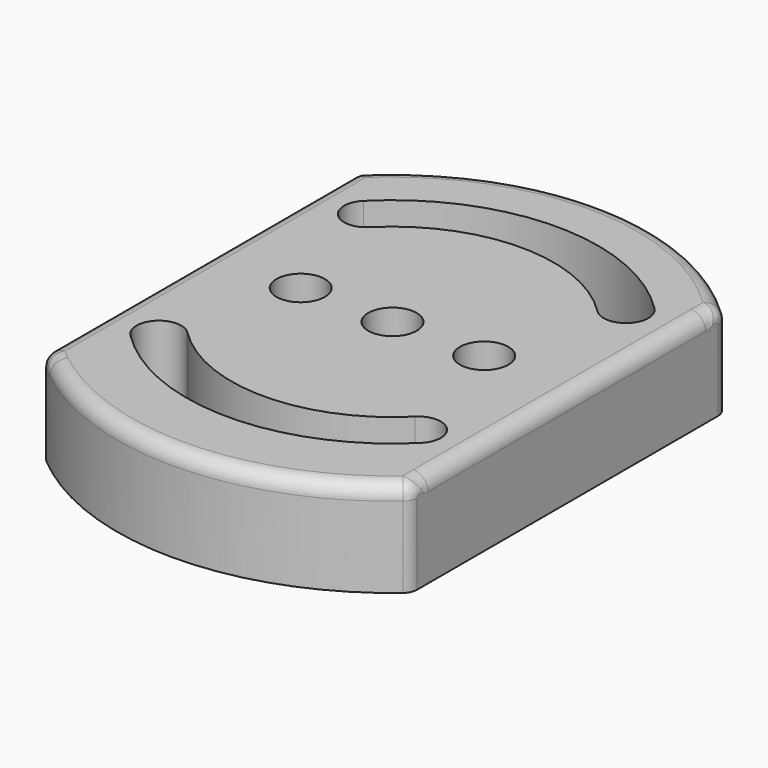
from build123d import *

# Parameters (mm, degrees)
PAD_DEPTH        = 13
HOLE_D           = 6.6
HOLE_DEPTH       = 25
HOLE_CBORE_D     = 11
HOLE_CBORE_DEPTH = 6.4
FILLET_R         = 2
FILLET001_R      = 2
FILLET002_R      = 2
FILLET003_R      = 2


with BuildPart() as part:
    # Sketch → Pad (new body)
    with BuildSketch(Plane.XY):
        with BuildLine():
            ThreePointArc((25, 25), (0, 35.355339), (-25, 25))
            Line((-25, -27.95085), (-25, 25))
            ThreePointArc((-25, -27.95085), (0, -37.5), (25, -27.95085))
            Line((25, 25), (25, -27.95085))
        make_face()
        with BuildLine():
            ThreePointArc((-19.834345, -19.834345), (0, -28.05), (19.834345, -19.834345))
            ThreePointArc((19.834345, -19.834345), (19.834345, -15.520994), (15.520994, -15.520994))
            ThreePointArc((-15.520994, -15.520994), (0, -21.95), (15.520994, -15.520994))
            ThreePointArc((-15.520994, -15.520994), (-19.834345, -15.520994), (-19.834345, -19.834345))
        make_face(mode=Mode.SUBTRACT)
        with BuildLine():
            ThreePointArc((-19.834345, 19.834345), (-19.834345, 15.520994), (-15.520994, 15.520994))
            ThreePointArc((15.521007, 15.52098), (1e-05, 21.95), (-15.520994, 15.520994))
            ThreePointArc((15.521007, 15.52098), (19.834352, 15.521), (19.834346, 19.834345))
            ThreePointArc((19.834346, 19.834345), (0, 28.05), (-19.834345, 19.834345))
        make_face(mode=Mode.SUBTRACT)
    extrude(amount=PAD_DEPTH)

    # Hole
    with Locations(Plane(origin=(0, 0, 0), x_dir=(1, 0, 0), z_dir=(0, 0, -1))):
        with Locations((0, 0), (-12.5, 0), (12.5, 0)):
            CounterBoreHole(HOLE_D / 2, HOLE_CBORE_D / 2, HOLE_CBORE_DEPTH, depth=HOLE_DEPTH)

    # Fillet
    fillet_edges = [part.edges().sort_by_distance(p)[0] for p in [
        (-25, -1.475425, 13),
    ]]
    fillet(fillet_edges, radius=FILLET_R)

    # Fillet001
    fillet001_edges = [part.edges().sort_by_distance(p)[0] for p in [
        (1.301993, -37.477391, 13),
    ]]
    fillet(fillet001_edges, radius=FILLET001_R)

    # Fillet002
    fillet002_edges = [part.edges().sort_by_distance(p)[0] for p in [
        (1.362703, 35.329068, 13),
    ]]
    fillet(fillet002_edges, radius=FILLET002_R)

    # Fillet003
    fillet003_edges = [part.edges().sort_by_distance(p)[0] for p in [
        (25, -1.561492, 13),
    ]]
    fillet(fillet003_edges, radius=FILLET003_R)


solid = part.part
